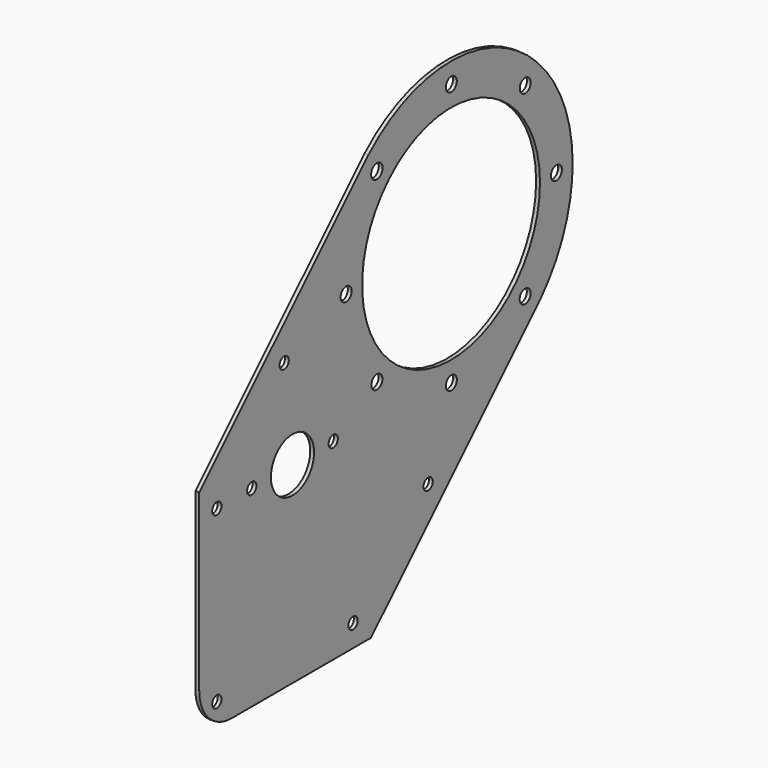
from build123d import *

# Parameters (mm, degrees)
F0_R     = 7.14375
F0_R_2   = 33.3375
F0_R_3   = 8.509
F0_R_4   = 8.89
F0_R_5   = 137.31875
F1_DEPTH = 4.7625


with BuildPart() as f1:
    # F0 (on Right) → F1 (new body)
    with BuildSketch(Plane.YZ):
        with BuildLine():
            Line((-271.696104, -5.952033), (-271.696104, -221.890895))
            ThreePointArc((-271.696104, -221.890895), (-257.051472, -257.246163), (-221.696204, -271.890795))
            Line((-221.696204, -271.890795), (-6.535242, -271.890795))
            Line((-6.535242, -271.890795), (254.987282, -10.17713))
            ThreePointArc((254.987282, -10.17713), (250.021545, 250.150476), (-10.30357, 255.245143))
            Line((-10.30357, 255.245143), (-271.696104, -5.952033))
        make_face()
        with Locations((-244.518688, -244.572155)):
            Circle(F0_R, mode=Mode.SUBTRACT)
        with Locations((-34.20458, -244.572155)):
            Circle(F0_R, mode=Mode.SUBTRACT)
        with Locations((-244.518688, -34.39127)):
            Circle(F0_R, mode=Mode.SUBTRACT)
        with Locations((-190.572923, -34.39127)):
            Circle(F0_R, mode=Mode.SUBTRACT)
        with Locations((-127.660375, -34.39127)):
            Circle(F0_R_2, mode=Mode.SUBTRACT)
        with Locations((-64.7478, -34.39127)):
            Circle(F0_R, mode=Mode.SUBTRACT)
        with Locations((2.731567, 2.773934)):
            Circle(F0_R_3, mode=Mode.SUBTRACT)
        with Locations((81.847131, -140.540435)):
            Circle(F0_R, mode=Mode.SUBTRACT)
        with Locations((117.685388, -44.901637)):
            Circle(F0_R_3, mode=Mode.SUBTRACT)
        with Locations((231.706395, 2.789326)):
            Circle(F0_R_3, mode=Mode.SUBTRACT)
        with Locations((-140.560552, 81.726329)):
            Circle(F0_R, mode=Mode.SUBTRACT)
        with Locations((-44.795135, 117.578861)):
            Circle(F0_R_3, mode=Mode.SUBTRACT)
        with Locations((2.655392, 231.961842)):
            Circle(F0_R_4, mode=Mode.SUBTRACT)
        with Locations((117.211272, 117.405963)):
            Circle(F0_R_5, mode=Mode.SUBTRACT)
        with Locations((279.937693, 117.578861)):
            Circle(F0_R_3, mode=Mode.SUBTRACT)
        with Locations((117.600933, 279.905917)):
            Circle(F0_R_3, mode=Mode.SUBTRACT)
        with Locations((231.809138, 231.996234)):
            Circle(F0_R_3, mode=Mode.SUBTRACT)
    extrude(amount=F1_DEPTH)


solid = f1.part
